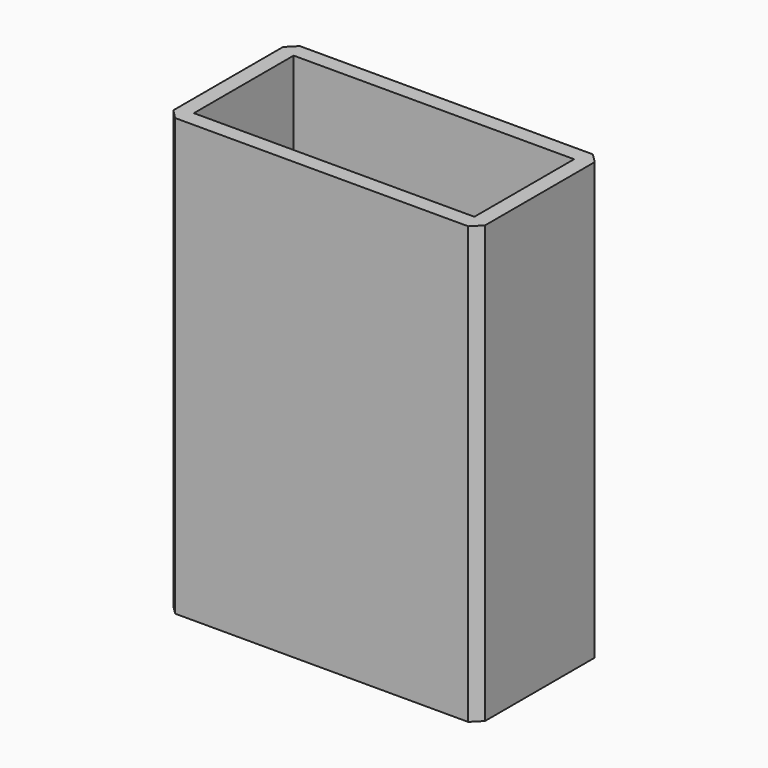
from build123d import *

# Parameters (mm, degrees)
F0_W     = 100
F0_H     = 50
F0_W_2   = 90
F0_H_2   = 40
F1_DEPTH = 140
F2_SIZE  = 3


with BuildPart() as f1:
    # F0 (on Top) → F1 (new body)
    with BuildSketch(Plane.XY):
        Rectangle(F0_W, F0_H)
        Rectangle(F0_W_2, F0_H_2, mode=Mode.SUBTRACT)
    extrude(amount=F1_DEPTH)

    # F2
    f2_edges = [f1.edges().sort_by_distance(p)[0] for p in [
        (50, -25, 70),
        (50, 25, 70),
        (-50, -25, 70),
        (-50, 25, 70),
    ]]
    chamfer(f2_edges, length=F2_SIZE)


solid = f1.part
